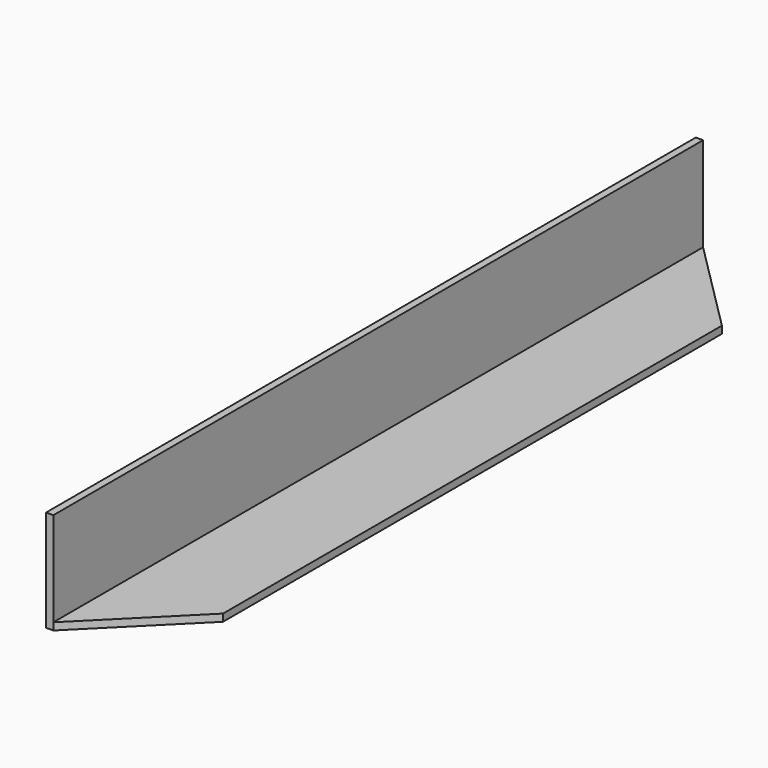
from build123d import *

# Parameters (mm, degrees)
F1_DEPTH = 355.6
F3_DEPTH = 25.4
F5_DEPTH = 25.4


with BuildPart() as f1:
    # F0 (on Front) → F1 (new body)
    with BuildSketch(Plane.XZ):
        Polygon((-53.348197, 11.929806), (-53.348197, -32.520194), (-8.898197, -32.520194), (-8.898197, -29.345194), (-50.173197, -29.345194), (-50.173197, 11.929806), align=None)
    extrude(amount=F1_DEPTH)

    # F2 (on face) → F3 (cut)
    with BuildSketch(Plane.XY.offset(-29.345194)):
        Polygon((-50.173197, 0), (-8.898197, -41.275), (-8.898197, 0), align=None)
    extrude(amount=-F3_DEPTH, mode=Mode.SUBTRACT)

    # F4 (on face) → F5 (cut)
    with BuildSketch(Plane.XY.offset(-29.345194)):
        Polygon((-8.898197, -355.6), (-8.898197, -314.325), (-50.173197, -355.6), align=None)
    extrude(amount=-F5_DEPTH, mode=Mode.SUBTRACT)


solid = f1.part
